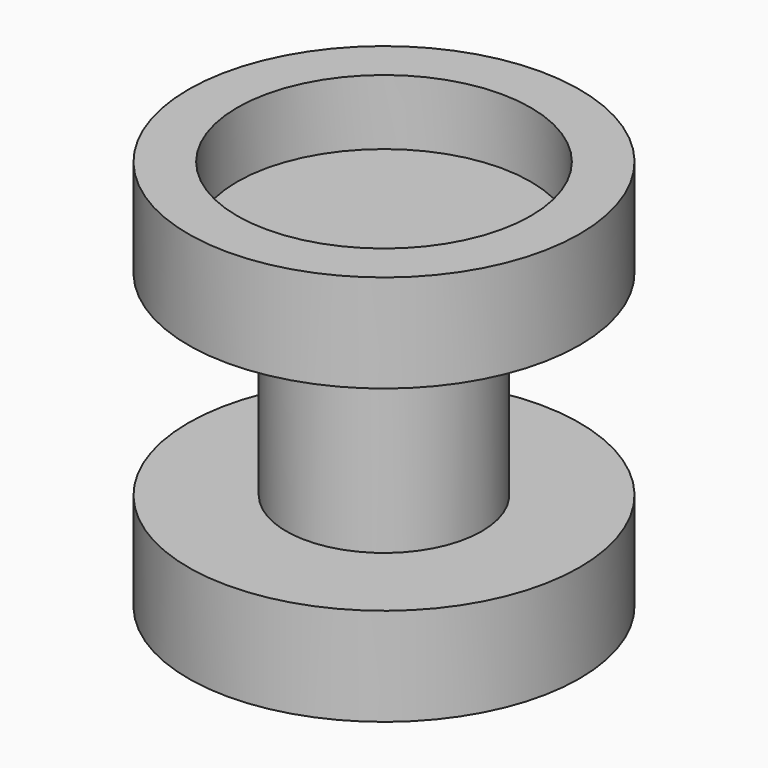
from build123d import *

# Parameters (mm, degrees)
F2_R     = 22.5
F3_DEPTH = 10


with BuildPart() as f1:
    # F0 (on Front) → F1 (revolve)
    with BuildSketch(Plane.XZ):
        Polygon((0, 60), (0, 0), (30, 0), (30, 15), (15, 15), (15, 45), (30, 45), (30, 60), align=None)
    revolve(axis=Axis((0, 0, 30), (0, 0, -1)))

    # F2 (on face) → F3 (cut)
    with BuildSketch(Plane.XY.offset(60)):
        Circle(F2_R)
    extrude(amount=-F3_DEPTH, mode=Mode.SUBTRACT)


solid = f1.part
